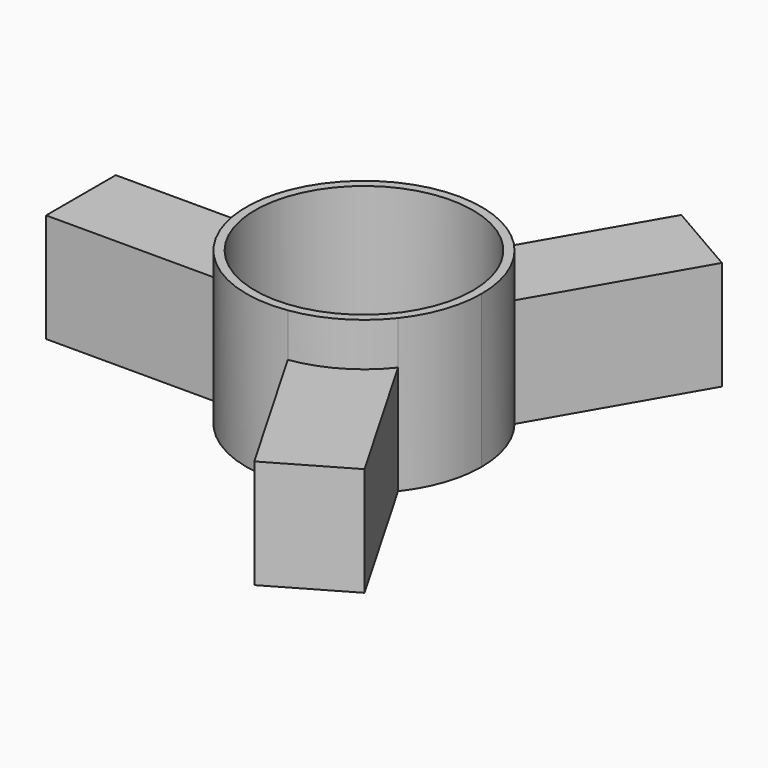
from build123d import *

# Parameters (mm, degrees)
F0_R     = 25
F1_DEPTH = 35
F2_DEPTH = 25


with BuildPart() as f1:
    # F0 (on Top) → F1 (new body)
    with BuildSketch(Plane.XY):
        with BuildLine():
            ThreePointArc((21.20019, -16.719807), (25.508872, -8.848584), (27, 0))
            ThreePointArc((27, 0), (25.508872, 8.848584), (21.20019, 16.719807))
            ThreePointArc((21.20019, 16.719807), (13.5, 23.382686), (3.879682, 26.719807))
            ThreePointArc((3.879682, 26.719807), (-13.5, 23.382686), (-25.079872, 10))
            ThreePointArc((-25.079872, 10), (-27, 0), (-25.079872, -10))
            ThreePointArc((-25.079872, -10), (-13.5, -23.382686), (3.879682, -26.719807))
            ThreePointArc((3.879682, -26.719807), (13.5, -23.382686), (21.20019, -16.719807))
        make_face()
        Circle(F0_R, mode=Mode.SUBTRACT)
    extrude(amount=F1_DEPTH)

    # F0 (on Top) → F2 (join)
    with BuildSketch(Plane.XY):
        with BuildLine():
            ThreePointArc((-25.079872, -10), (-27, 0), (-25.079872, 10))
            Line((-25.079872, 10), (-65, 10))
            Line((-65, 10), (-65, -10))
            Line((-65, -10), (-25.079872, -10))
        make_face()
        with BuildLine():
            Line((41.160254, -51.291651), (21.20019, -16.719807))
            ThreePointArc((21.20019, -16.719807), (13.5, -23.382686), (3.879682, -26.719807))
            Line((3.879682, -26.719807), (23.839746, -61.291651))
            Line((23.839746, -61.291651), (41.160254, -51.291651))
        make_face()
        with BuildLine():
            ThreePointArc((3.879682, 26.719807), (13.5, 23.382686), (21.20019, 16.719807))
            Line((21.20019, 16.719807), (41.160254, 51.291651))
            Line((41.160254, 51.291651), (23.839746, 61.291651))
            Line((23.839746, 61.291651), (3.879682, 26.719807))
        make_face()
    extrude(amount=F2_DEPTH)


solid = f1.part
